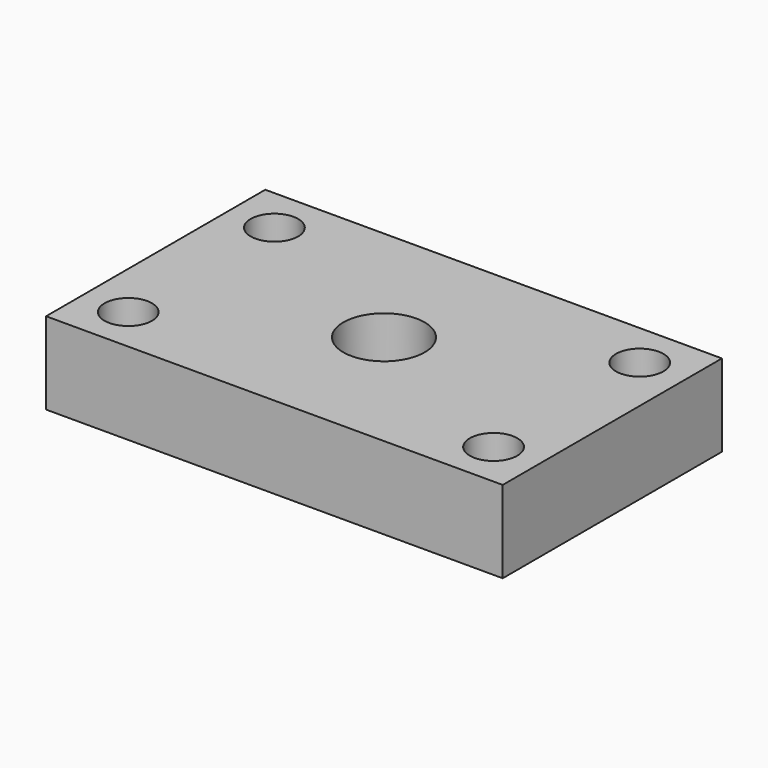
from build123d import *

# Parameters (mm, degrees)
F0_W     = 12.7
F0_H     = 7.62
F0_W_2   = 10.16
F0_H_2   = 5.08
F1_DEPTH = 2.286
F2_D     = 1.3208
F3_D     = 2.2606


with BuildPart() as f1:
    # F0 (on Top) → F1 (new body)
    with BuildSketch(Plane.XY):
        Rectangle(F0_W, F0_H)
        Rectangle(F0_W_2, F0_H_2, mode=Mode.SUBTRACT)
        Rectangle(F0_W_2, F0_H_2)
    extrude(amount=F1_DEPTH)

    # F2 (through all)
    with Locations(Plane(origin=(0, 0, 0), x_dir=(1, 0, 0), z_dir=(0, 0, -1))):
        with Locations((-5.08, -2.54), (5.08, -2.54), (5.08, 2.54), (-5.08, 2.54)):
            Hole(F2_D / 2)

    # F3 (through all)
    with Locations(Plane(origin=(0, 0, 0), x_dir=(1, 0, 0), z_dir=(0, 0, -1))):
        with Locations((0, 0)):
            Hole(F3_D / 2)


solid = f1.part
